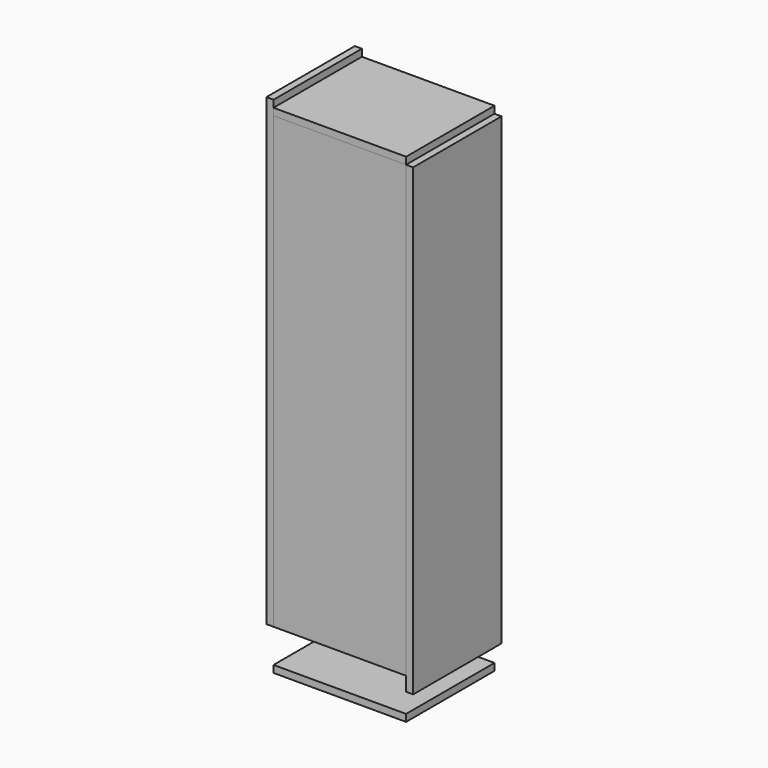
from build123d import *

# Parameters (mm, degrees)
F0_W      = 300
F0_H      = 1018
F1_DEPTH  = 22
F5_DEPTH  = 16
F7_W      = 250
F7_H      = 1050
F8_DEPTH  = 16
F10_W     = 300
F10_H     = 1018
F11_DEPTH = 16
F13_W     = 300
F13_H     = 250
F14_DEPTH = 16


with BuildPart() as f1:
    # F0 (on Front) → F1 (new body)
    with BuildSketch(Plane.XZ):
        Rectangle(F0_W, F0_H)
    extrude(amount=F1_DEPTH)


with BuildPart() as f5:
    # F4 (on offset) → F5 (new body)
    with BuildSketch(Plane.YZ.offset(150)):
        Polygon((0, 509), (-22, 509), (-22, -541), (228, -541), (228, 509), align=None)
    extrude(amount=F5_DEPTH)


with BuildPart() as f8:
    # F7 (on offset) → F8 (new body)
    with BuildSketch(Plane(origin=(-150, 0, 0), x_dir=(0, -1, 0), z_dir=(-1, 0, 0))):
        with Locations((-103, 16)):
            Rectangle(F7_W, F7_H)
    extrude(amount=F8_DEPTH)


with BuildPart() as f11:
    # F10 (on offset) → F11 (new body)
    with BuildSketch(Plane(origin=(0, 228, 0), x_dir=(-1, 0, 0), z_dir=(0, 1, 0))):
        Rectangle(F10_W, F10_H)
    extrude(amount=-F11_DEPTH)


with BuildPart() as f14:
    # F13 (on offset) → F14 (new body)
    with BuildSketch(Plane.XY.offset(509)):
        with Locations((0, 103)):
            Rectangle(F13_W, F13_H)
    extrude(amount=F14_DEPTH)


with BuildPart() as f15_1:
    # F15: copy of F14
    add(f14.part.moved(Location((0, 0, -1110))))


solid = Compound([f1.part, f5.part, f8.part, f11.part, f14.part, f15_1.part])
